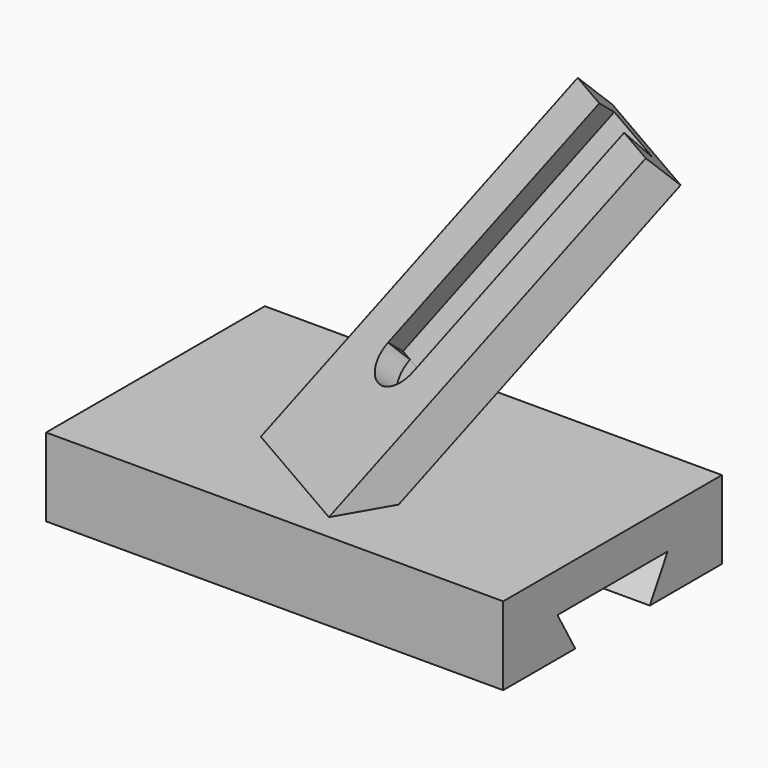
from build123d import *

# Parameters (mm, degrees)
F0_W      = 111.252
F0_H      = 19.05
F1_DEPTH  = 33.274
F3_DEPTH  = 111.253
F5_ANGLE  = 45
F7_DEPTH  = 35.56
F9_DEPTH  = 98.2604240246
F11_DEPTH = 60.96
F13_DEPTH = 6.35


with BuildPart() as f1:
    # F0 (on Front) → F1 (new body, symmetric)
    with BuildSketch(Plane.XZ):
        with Locations((-55.626, -9.525)):
            Rectangle(F0_W, F0_H)
    extrude(amount=F1_DEPTH, both=True)

    # F2 (on Right) → F3 (cut, through all)
    with BuildSketch(Plane.YZ):
        Polygon((-11.3380621702, -19.05), (11.3380621702, -19.05), (16.764, -9.652), (-16.764, -9.652), align=None)
    extrude(amount=-F3_DEPTH, mode=Mode.SUBTRACT)

    # F4 (on Top) → F5 (revolve)
    with BuildSketch(Plane.XY):
        Polygon((-78.2938633586, -9.144), (-47.498, -26.924), (-40.386, -14.6056546566), (-71.1818633586, 3.1743453434), align=None)
    revolve(axis=Axis((-62.8959316793, -18.034, 0), (0.8660254038, -0.5, 0)), revolution_arc=F5_ANGLE)

    # F6 (on face) → F7 (join)
    with BuildSketch(Plane(origin=(-23.9650660143, 13.8362373145, 0), x_dir=(0.5, 0.8660254038, 0), z_dir=(0.8660254038, -0.5, 0))):
        Polygon((17.5919761002, 64.6578440717), (-47.0658679715, 0), (-32.8418679715, 0), (31.8159761002, 64.6578440717), align=None)
    extrude(amount=-F7_DEPTH)

    # F8 (on face) → F9 (cut, through all)
    with BuildSketch(Plane(origin=(-23.9650660143, 13.8362373145, 0), x_dir=(0.5, 0.8660254038, 0), z_dir=(0.8660254038, -0.5, 0))):
        Polygon((31.8159761002, 64.6578440717), (17.5919761002, 64.6578440717), (24.7039761002, 57.5458440717), align=None)
    extrude(amount=-F9_DEPTH, mode=Mode.SUBTRACT)

    # F10 (on face) → F11 (cut)
    with BuildSketch(Plane(origin=(20.562455043, 35.6152168628, 41.124910086), x_dir=(0.9354143467, -0.2314550249, -0.2672612419), z_dir=(0.3535533906, 0.6123724357, 0.7071067812))):
        Polygon((-42.8532903043, -11.5935840247), (-61.6659547317, -3.9133459332), (-60.671811363, -11.1779871697), (-48.6475824802, -16.0868580553), align=None)
    extrude(amount=-F11_DEPTH, mode=Mode.SUBTRACT)

    # F12 (on face) → F13 (cut)
    with BuildSketch(Plane(origin=(-11.7664669929, -20.3801186572, 23.5329339857), x_dir=(0.9354143467, -0.2314550249, 0.2672612419), z_dir=(-0.3535533906, -0.6123724357, 0.7071067812))):
        with BuildLine():
            Line((-37.1272253429, 12.1321385858), (-49.1514542257, 17.0410094713))
            ThreePointArc((-49.1514542257, 17.0410094713), (-45.5937752271, 8.5744595872), (-37.1272253429, 12.1321385858))
        make_face()
    extrude(amount=-F13_DEPTH, mode=Mode.SUBTRACT)


solid = f1.part
